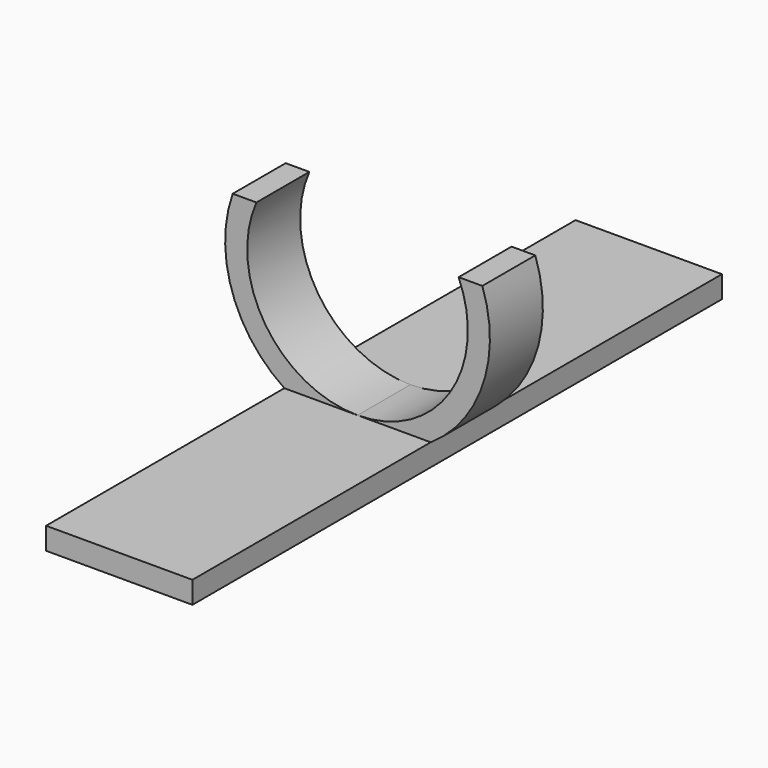
from build123d import *

# Parameters (mm, degrees)
F1_DEPTH = 15
F2_DEPTH = 1.5


with BuildPart() as f1:
    # F0 (on Front) → F1 (new body, symmetric)
    with BuildSketch(Plane.XZ):
        with BuildLine():
            ThreePointArc((3.316625, 1), (1.732051, 0.255437), (0, 0))
            Line((0, 0), (3.316625, 0))
            Line((3.316625, 0), (3.316625, 1))
        make_face()
        with BuildLine():
            ThreePointArc((0, 0), (-1.732051, 0.255437), (-3.316625, 1))
            Line((-3.316625, 1), (-3.316625, 0))
            Line((-3.316625, 0), (0, 0))
        make_face()
        with BuildLine():
            Line((0, 1), (-3.316625, 1))
            ThreePointArc((-3.316625, 1), (-1.732051, 0.255437), (0, 0))
            ThreePointArc((0, 0), (1.732051, 0.255437), (3.316625, 1))
            Line((3.316625, 1), (0, 1))
        make_face()
    extrude(amount=F1_DEPTH, both=True)

    # F0 (on Front) → F2 (join, symmetric)
    with BuildSketch(Plane.XZ):
        with BuildLine():
            ThreePointArc((-5.656854, 8), (-5.690416, 4.097589), (-3.316625, 1))
            Line((-3.316625, 1), (0, 1))
            ThreePointArc((0, 1), (-4.1833, 3.261387), (-4.582576, 8))
            Line((-4.582576, 8), (-5.656854, 8))
        make_face()
        with BuildLine():
            ThreePointArc((4.582576, 8), (4.1833, 3.261387), (0, 1))
            Line((0, 1), (3.316625, 1))
            ThreePointArc((3.316625, 1), (5.690416, 4.097589), (5.656854, 8))
            Line((5.656854, 8), (4.582576, 8))
        make_face()
    extrude(amount=F2_DEPTH, both=True)


solid = f1.part
